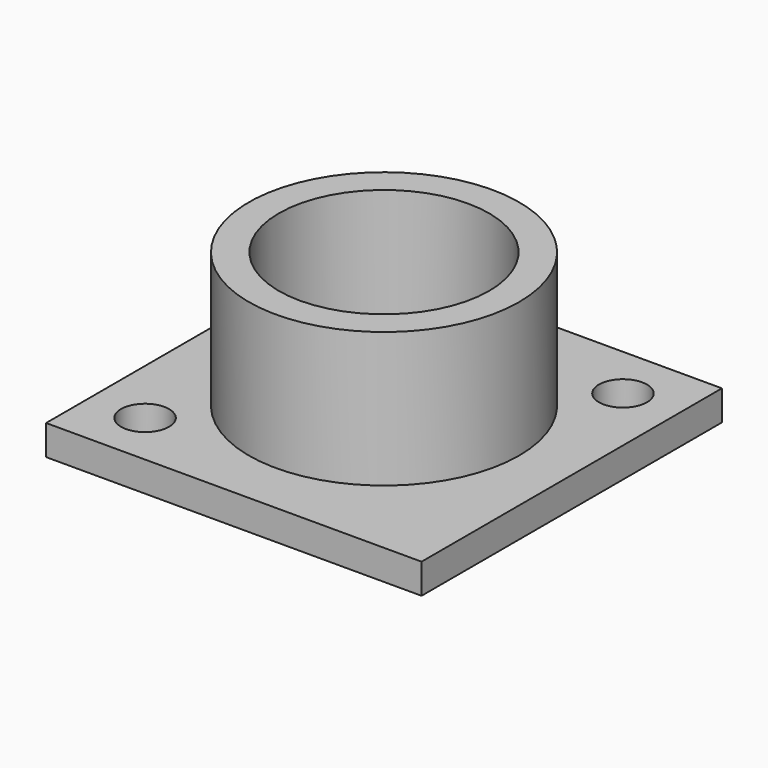
from build123d import *

# Parameters (mm, degrees)
F0_W     = 25
F0_H     = 25
F0_R     = 1.6
F0_R_2   = 7
F1_DEPTH = 2
F2_R     = 9
F2_R_2   = 7
F3_DEPTH = 9


with BuildPart() as f1:
    # F0 (on Top) → F1 (new body)
    with BuildSketch(Plane.XY):
        Rectangle(F0_W, F0_H)
        with Locations((-8.838835, -8.838835)):
            Circle(F0_R, mode=Mode.SUBTRACT)
        Circle(F0_R_2, mode=Mode.SUBTRACT)
        with Locations((8.838835, 8.838835)):
            Circle(F0_R, mode=Mode.SUBTRACT)
    extrude(amount=F1_DEPTH)

    # F2 (on face) → F3 (join)
    with BuildSketch(Plane.XY.offset(2)):
        Circle(F2_R)
        Circle(F2_R_2, mode=Mode.SUBTRACT)
    extrude(amount=F3_DEPTH)


solid = f1.part
